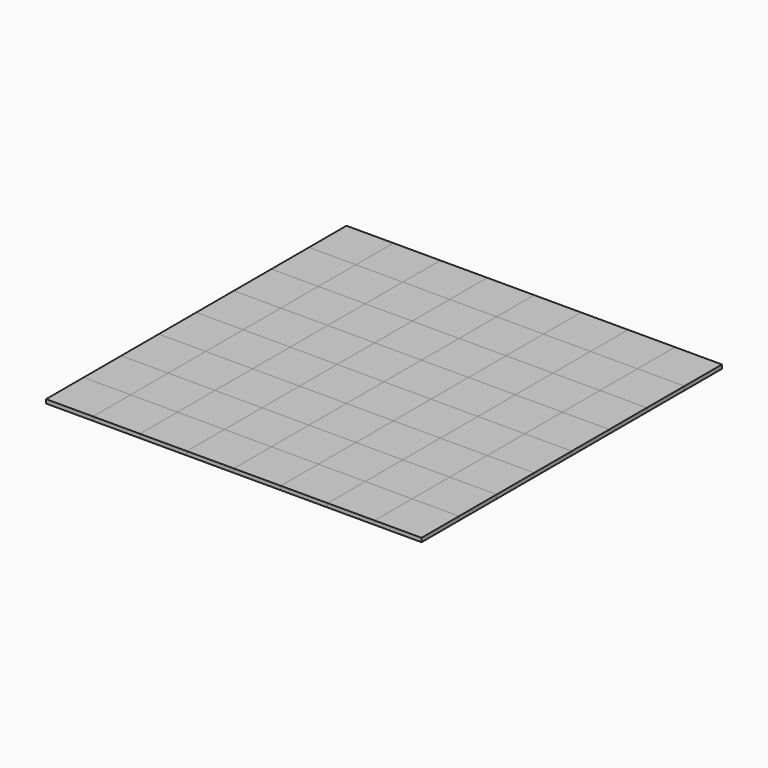
from build123d import *

# Parameters (mm, degrees)
F0_W     = 304.8
F0_H     = 304.8
F1_DEPTH = 25.4
F2_DEPTH = 25.4


with BuildPart() as f1:
    # F0 (on Top) → F1 (new body)
    with BuildSketch(Plane.XY):
        with Locations((-1066.3269257115, -1065.7335909486)):
            Rectangle(F0_W, F0_H)
    extrude(amount=F1_DEPTH)


with BuildPart() as f1b:
    # F0 (on Top) → F1, piece 2 (new body)
    with BuildSketch(Plane.XY):
        with Locations((-761.5269257115, -760.9335909486)):
            Rectangle(F0_W, F0_H)
    extrude(amount=F1_DEPTH)


with BuildPart() as f1c:
    # F0 (on Top) → F1, piece 3 (new body)
    with BuildSketch(Plane.XY):
        with Locations((-456.7269257115, -1065.7335909486)):
            Rectangle(F0_W, F0_H)
    extrude(amount=F1_DEPTH)


with BuildPart() as f1d:
    # F0 (on Top) → F1, piece 4 (new body)
    with BuildSketch(Plane.XY):
        with Locations((-151.9269257115, -760.9335909486)):
            Rectangle(F0_W, F0_H)
    extrude(amount=F1_DEPTH)


with BuildPart() as f1e:
    # F0 (on Top) → F1, piece 5 (new body)
    with BuildSketch(Plane.XY):
        with Locations((152.8730742885, -1065.7335909486)):
            Rectangle(F0_W, F0_H)
    extrude(amount=F1_DEPTH)


with BuildPart() as f1f:
    # F0 (on Top) → F1, piece 6 (new body)
    with BuildSketch(Plane.XY):
        with Locations((457.6730742885, -760.9335909486)):
            Rectangle(F0_W, F0_H)
    extrude(amount=F1_DEPTH)


with BuildPart() as f1g:
    # F0 (on Top) → F1, piece 7 (new body)
    with BuildSketch(Plane.XY):
        with Locations((762.4730742885, -1065.7335909486)):
            Rectangle(F0_W, F0_H)
    extrude(amount=F1_DEPTH)


with BuildPart() as f1h:
    # F0 (on Top) → F1, piece 8 (new body)
    with BuildSketch(Plane.XY):
        with Locations((1067.2730742885, -760.9335909486)):
            Rectangle(F0_W, F0_H)
    extrude(amount=F1_DEPTH)


with BuildPart() as f1i:
    # F0 (on Top) → F1, piece 9 (new body)
    with BuildSketch(Plane.XY):
        with Locations((762.4730742885, -456.1335909486)):
            Rectangle(F0_W, F0_H)
    extrude(amount=F1_DEPTH)


with BuildPart() as f1j:
    # F0 (on Top) → F1, piece 10 (new body)
    with BuildSketch(Plane.XY):
        with Locations((152.8730742885, -456.1335909486)):
            Rectangle(F0_W, F0_H)
    extrude(amount=F1_DEPTH)


with BuildPart() as f1k:
    # F0 (on Top) → F1, piece 11 (new body)
    with BuildSketch(Plane.XY):
        with Locations((-456.7269257115, -456.1335909486)):
            Rectangle(F0_W, F0_H)
    extrude(amount=F1_DEPTH)


with BuildPart() as f1l:
    # F0 (on Top) → F1, piece 12 (new body)
    with BuildSketch(Plane.XY):
        with Locations((-1066.3269257115, -456.1335909486)):
            Rectangle(F0_W, F0_H)
    extrude(amount=F1_DEPTH)


with BuildPart() as f1m:
    # F0 (on Top) → F1, piece 13 (new body)
    with BuildSketch(Plane.XY):
        with Locations((-761.5269257115, -151.3335909486)):
            Rectangle(F0_W, F0_H)
    extrude(amount=F1_DEPTH)


with BuildPart() as f1n:
    # F0 (on Top) → F1, piece 14 (new body)
    with BuildSketch(Plane.XY):
        with Locations((-151.9269257115, -151.3335909486)):
            Rectangle(F0_W, F0_H)
    extrude(amount=F1_DEPTH)


with BuildPart() as f1o:
    # F0 (on Top) → F1, piece 15 (new body)
    with BuildSketch(Plane.XY):
        with Locations((457.6730742885, -151.3335909486)):
            Rectangle(F0_W, F0_H)
    extrude(amount=F1_DEPTH)


with BuildPart() as f1p:
    # F0 (on Top) → F1, piece 16 (new body)
    with BuildSketch(Plane.XY):
        with Locations((1067.2730742885, -151.3335909486)):
            Rectangle(F0_W, F0_H)
    extrude(amount=F1_DEPTH)


with BuildPart() as f1q:
    # F0 (on Top) → F1, piece 17 (new body)
    with BuildSketch(Plane.XY):
        with Locations((762.4730742885, 153.4664090514)):
            Rectangle(F0_W, F0_H)
    extrude(amount=F1_DEPTH)


with BuildPart() as f1r:
    # F0 (on Top) → F1, piece 18 (new body)
    with BuildSketch(Plane.XY):
        with Locations((1067.2730742885, 458.2664090514)):
            Rectangle(F0_W, F0_H)
    extrude(amount=F1_DEPTH)


with BuildPart() as f1s:
    # F0 (on Top) → F1, piece 19 (new body)
    with BuildSketch(Plane.XY):
        with Locations((762.4730742885, 763.0664090514)):
            Rectangle(F0_W, F0_H)
    extrude(amount=F1_DEPTH)


with BuildPart() as f1t:
    # F0 (on Top) → F1, piece 20 (new body)
    with BuildSketch(Plane.XY):
        with Locations((1067.2730742885, 1067.8664090514)):
            Rectangle(F0_W, F0_H)
    extrude(amount=F1_DEPTH)


with BuildPart() as f1u:
    # F0 (on Top) → F1, piece 21 (new body)
    with BuildSketch(Plane.XY):
        with Locations((457.6730742885, 1067.8664090514)):
            Rectangle(F0_W, F0_H)
    extrude(amount=F1_DEPTH)


with BuildPart() as f1v:
    # F0 (on Top) → F1, piece 22 (new body)
    with BuildSketch(Plane.XY):
        with Locations((457.6730742885, 458.2664090514)):
            Rectangle(F0_W, F0_H)
    extrude(amount=F1_DEPTH)


with BuildPart() as f1w:
    # F0 (on Top) → F1, piece 23 (new body)
    with BuildSketch(Plane.XY):
        with Locations((152.8730742885, 153.4664090514)):
            Rectangle(F0_W, F0_H)
    extrude(amount=F1_DEPTH)


with BuildPart() as f1x:
    # F0 (on Top) → F1, piece 24 (new body)
    with BuildSketch(Plane.XY):
        with Locations((152.8730742885, 763.0664090514)):
            Rectangle(F0_W, F0_H)
    extrude(amount=F1_DEPTH)


with BuildPart() as f1y:
    # F0 (on Top) → F1, piece 25 (new body)
    with BuildSketch(Plane.XY):
        with Locations((-151.9269257115, 1067.8664090514)):
            Rectangle(F0_W, F0_H)
    extrude(amount=F1_DEPTH)


with BuildPart() as f1z:
    # F0 (on Top) → F1, piece 26 (new body)
    with BuildSketch(Plane.XY):
        with Locations((-151.9269257115, 458.2664090514)):
            Rectangle(F0_W, F0_H)
    extrude(amount=F1_DEPTH)


with BuildPart() as f1ba:
    # F0 (on Top) → F1, piece 27 (new body)
    with BuildSketch(Plane.XY):
        with Locations((-456.7269257115, 153.4664090514)):
            Rectangle(F0_W, F0_H)
    extrude(amount=F1_DEPTH)


with BuildPart() as f1bb:
    # F0 (on Top) → F1, piece 28 (new body)
    with BuildSketch(Plane.XY):
        with Locations((-456.7269257115, 763.0664090514)):
            Rectangle(F0_W, F0_H)
    extrude(amount=F1_DEPTH)


with BuildPart() as f1bc:
    # F0 (on Top) → F1, piece 29 (new body)
    with BuildSketch(Plane.XY):
        with Locations((-761.5269257115, 1067.8664090514)):
            Rectangle(F0_W, F0_H)
    extrude(amount=F1_DEPTH)


with BuildPart() as f1bd:
    # F0 (on Top) → F1, piece 30 (new body)
    with BuildSketch(Plane.XY):
        with Locations((-761.5269257115, 458.2664090514)):
            Rectangle(F0_W, F0_H)
    extrude(amount=F1_DEPTH)


with BuildPart() as f1be:
    # F0 (on Top) → F1, piece 31 (new body)
    with BuildSketch(Plane.XY):
        with Locations((-1066.3269257115, 153.4664090514)):
            Rectangle(F0_W, F0_H)
    extrude(amount=F1_DEPTH)


with BuildPart() as f1bf:
    # F0 (on Top) → F1, piece 32 (new body)
    with BuildSketch(Plane.XY):
        with Locations((-1066.3269257115, 763.0664090514)):
            Rectangle(F0_W, F0_H)
    extrude(amount=F1_DEPTH)


with BuildPart() as f2:
    # F0 (on Top) → F2 (new body)
    with BuildSketch(Plane.XY):
        with Locations((-761.5269257115, -1065.7335909486)):
            Rectangle(F0_W, F0_H)
    extrude(amount=F2_DEPTH)


with BuildPart() as f2b:
    # F0 (on Top) → F2, piece 2 (new body)
    with BuildSketch(Plane.XY):
        with Locations((-1066.3269257115, -760.9335909486)):
            Rectangle(F0_W, F0_H)
    extrude(amount=F2_DEPTH)


with BuildPart() as f2c:
    # F0 (on Top) → F2, piece 3 (new body)
    with BuildSketch(Plane.XY):
        with Locations((-456.7269257115, -760.9335909486)):
            Rectangle(F0_W, F0_H)
    extrude(amount=F2_DEPTH)


with BuildPart() as f2d:
    # F0 (on Top) → F2, piece 4 (new body)
    with BuildSketch(Plane.XY):
        with Locations((-151.9269257115, -1065.7335909486)):
            Rectangle(F0_W, F0_H)
    extrude(amount=F2_DEPTH)


with BuildPart() as f2e:
    # F0 (on Top) → F2, piece 5 (new body)
    with BuildSketch(Plane.XY):
        with Locations((152.8730742885, -760.9335909486)):
            Rectangle(F0_W, F0_H)
    extrude(amount=F2_DEPTH)


with BuildPart() as f2f:
    # F0 (on Top) → F2, piece 6 (new body)
    with BuildSketch(Plane.XY):
        with Locations((457.6730742885, -1065.7335909486)):
            Rectangle(F0_W, F0_H)
    extrude(amount=F2_DEPTH)


with BuildPart() as f2g:
    # F0 (on Top) → F2, piece 7 (new body)
    with BuildSketch(Plane.XY):
        with Locations((762.4730742885, -760.9335909486)):
            Rectangle(F0_W, F0_H)
    extrude(amount=F2_DEPTH)


with BuildPart() as f2h:
    # F0 (on Top) → F2, piece 8 (new body)
    with BuildSketch(Plane.XY):
        with Locations((1067.2730742885, -1065.7335909486)):
            Rectangle(F0_W, F0_H)
    extrude(amount=F2_DEPTH)


with BuildPart() as f2i:
    # F0 (on Top) → F2, piece 9 (new body)
    with BuildSketch(Plane.XY):
        with Locations((1067.2730742885, -456.1335909486)):
            Rectangle(F0_W, F0_H)
    extrude(amount=F2_DEPTH)


with BuildPart() as f2j:
    # F0 (on Top) → F2, piece 10 (new body)
    with BuildSketch(Plane.XY):
        with Locations((762.4730742885, -151.3335909486)):
            Rectangle(F0_W, F0_H)
    extrude(amount=F2_DEPTH)


with BuildPart() as f2k:
    # F0 (on Top) → F2, piece 11 (new body)
    with BuildSketch(Plane.XY):
        with Locations((457.6730742885, -456.1335909486)):
            Rectangle(F0_W, F0_H)
    extrude(amount=F2_DEPTH)


with BuildPart() as f2l:
    # F0 (on Top) → F2, piece 12 (new body)
    with BuildSketch(Plane.XY):
        with Locations((152.8730742885, -151.3335909486)):
            Rectangle(F0_W, F0_H)
    extrude(amount=F2_DEPTH)


with BuildPart() as f2m:
    # F0 (on Top) → F2, piece 13 (new body)
    with BuildSketch(Plane.XY):
        with Locations((-151.9269257115, -456.1335909486)):
            Rectangle(F0_W, F0_H)
    extrude(amount=F2_DEPTH)


with BuildPart() as f2n:
    # F0 (on Top) → F2, piece 14 (new body)
    with BuildSketch(Plane.XY):
        with Locations((-761.5269257115, -456.1335909486)):
            Rectangle(F0_W, F0_H)
    extrude(amount=F2_DEPTH)


with BuildPart() as f2o:
    # F0 (on Top) → F2, piece 15 (new body)
    with BuildSketch(Plane.XY):
        with Locations((-456.7269257115, -151.3335909486)):
            Rectangle(F0_W, F0_H)
    extrude(amount=F2_DEPTH)


with BuildPart() as f2p:
    # F0 (on Top) → F2, piece 16 (new body)
    with BuildSketch(Plane.XY):
        with Locations((-1066.3269257115, -151.3335909486)):
            Rectangle(F0_W, F0_H)
    extrude(amount=F2_DEPTH)


with BuildPart() as f2q:
    # F0 (on Top) → F2, piece 17 (new body)
    with BuildSketch(Plane.XY):
        with Locations((-761.5269257115, 153.4664090514)):
            Rectangle(F0_W, F0_H)
    extrude(amount=F2_DEPTH)


with BuildPart() as f2r:
    # F0 (on Top) → F2, piece 18 (new body)
    with BuildSketch(Plane.XY):
        with Locations((-1066.3269257115, 458.2664090514)):
            Rectangle(F0_W, F0_H)
    extrude(amount=F2_DEPTH)


with BuildPart() as f2s:
    # F0 (on Top) → F2, piece 19 (new body)
    with BuildSketch(Plane.XY):
        with Locations((-761.5269257115, 763.0664090514)):
            Rectangle(F0_W, F0_H)
    extrude(amount=F2_DEPTH)


with BuildPart() as f2t:
    # F0 (on Top) → F2, piece 20 (new body)
    with BuildSketch(Plane.XY):
        with Locations((-456.7269257115, 458.2664090514)):
            Rectangle(F0_W, F0_H)
    extrude(amount=F2_DEPTH)


with BuildPart() as f2u:
    # F0 (on Top) → F2, piece 21 (new body)
    with BuildSketch(Plane.XY):
        with Locations((-151.9269257115, 153.4664090514)):
            Rectangle(F0_W, F0_H)
    extrude(amount=F2_DEPTH)


with BuildPart() as f2v:
    # F0 (on Top) → F2, piece 22 (new body)
    with BuildSketch(Plane.XY):
        with Locations((152.8730742885, 458.2664090514)):
            Rectangle(F0_W, F0_H)
    extrude(amount=F2_DEPTH)


with BuildPart() as f2w:
    # F0 (on Top) → F2, piece 23 (new body)
    with BuildSketch(Plane.XY):
        with Locations((457.6730742885, 153.4664090514)):
            Rectangle(F0_W, F0_H)
    extrude(amount=F2_DEPTH)


with BuildPart() as f2x:
    # F0 (on Top) → F2, piece 24 (new body)
    with BuildSketch(Plane.XY):
        with Locations((762.4730742885, 458.2664090514)):
            Rectangle(F0_W, F0_H)
    extrude(amount=F2_DEPTH)


with BuildPart() as f2y:
    # F0 (on Top) → F2, piece 25 (new body)
    with BuildSketch(Plane.XY):
        with Locations((1067.2730742885, 153.4664090514)):
            Rectangle(F0_W, F0_H)
    extrude(amount=F2_DEPTH)


with BuildPart() as f2z:
    # F0 (on Top) → F2, piece 26 (new body)
    with BuildSketch(Plane.XY):
        with Locations((457.6730742885, 763.0664090514)):
            Rectangle(F0_W, F0_H)
    extrude(amount=F2_DEPTH)


with BuildPart() as f2ba:
    # F0 (on Top) → F2, piece 27 (new body)
    with BuildSketch(Plane.XY):
        with Locations((-151.9269257115, 763.0664090514)):
            Rectangle(F0_W, F0_H)
    extrude(amount=F2_DEPTH)


with BuildPart() as f2bb:
    # F0 (on Top) → F2, piece 28 (new body)
    with BuildSketch(Plane.XY):
        with Locations((-456.7269257115, 1067.8664090514)):
            Rectangle(F0_W, F0_H)
    extrude(amount=F2_DEPTH)


with BuildPart() as f2bc:
    # F0 (on Top) → F2, piece 29 (new body)
    with BuildSketch(Plane.XY):
        with Locations((152.8730742885, 1067.8664090514)):
            Rectangle(F0_W, F0_H)
    extrude(amount=F2_DEPTH)


with BuildPart() as f2bd:
    # F0 (on Top) → F2, piece 30 (new body)
    with BuildSketch(Plane.XY):
        with Locations((762.4730742885, 1067.8664090514)):
            Rectangle(F0_W, F0_H)
    extrude(amount=F2_DEPTH)


with BuildPart() as f2be:
    # F0 (on Top) → F2, piece 31 (new body)
    with BuildSketch(Plane.XY):
        with Locations((-1066.3269257115, 1067.8664090514)):
            Rectangle(F0_W, F0_H)
    extrude(amount=F2_DEPTH)


with BuildPart() as f2bf:
    # F0 (on Top) → F2, piece 32 (new body)
    with BuildSketch(Plane.XY):
        with Locations((1067.2730742885, 763.0664090514)):
            Rectangle(F0_W, F0_H)
    extrude(amount=F2_DEPTH)


solid = Compound([f1.part, f1b.part, f1c.part, f1d.part, f1e.part, f1f.part, f1g.part, f1h.part, f1i.part, f1j.part, f1k.part, f1l.part, f1m.part, f1n.part, f1o.part, f1p.part, f1q.part, f1r.part, f1s.part, f1t.part, f1u.part, f1v.part, f1w.part, f1x.part, f1y.part, f1z.part, f1ba.part, f1bb.part, f1bc.part, f1bd.part, f1be.part, f1bf.part, f2.part, f2b.part, f2c.part, f2d.part, f2e.part, f2f.part, f2g.part, f2h.part, f2i.part, f2j.part, f2k.part, f2l.part, f2m.part, f2n.part, f2o.part, f2p.part, f2q.part, f2r.part, f2s.part, f2t.part, f2u.part, f2v.part, f2w.part, f2x.part, f2y.part, f2z.part, f2ba.part, f2bb.part, f2bc.part, f2bd.part, f2be.part, f2bf.part])
